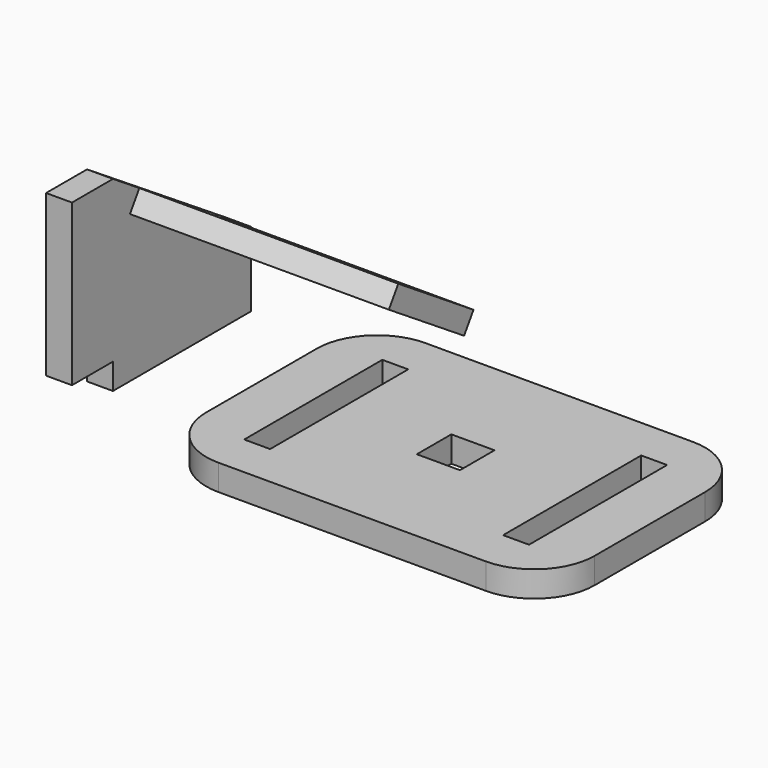
from build123d import *

# Parameters (mm, degrees)
F0_W      = 45
F0_H      = 30
F0_W_2    = 3
F0_H_2    = 20
F0_W_3    = 5
F0_H_3    = 5
F1_DEPTH  = 3
F2_R      = 7
F3_W      = 3
F3_H      = 20
F4_DEPTH  = 3
F5_W      = 5.9335825592
F5_H      = 18.6349982917
F6_DEPTH  = 3
F8_DEPTH  = 25
F10_DEPTH = 33


with BuildPart() as f1:
    # F0 (on Top) → F1 (new body)
    with BuildSketch(Plane.XY):
        Rectangle(F0_W, F0_H)
        with Locations((-15, 0)):
            Rectangle(F0_W_2, F0_H_2, mode=Mode.SUBTRACT)
        Rectangle(F0_W_3, F0_H_3, mode=Mode.SUBTRACT)
        with Locations((15, 0)):
            Rectangle(F0_W_2, F0_H_2, mode=Mode.SUBTRACT)
    extrude(amount=F1_DEPTH)

    # F2
    f2_edges = [f1.edges().sort_by_distance(p)[0] for p in [
        (-22.5, 15, 1.5),
        (-22.5, -15, 1.5),
        (22.5, -15, 1.5),
        (22.5, 15, 1.5),
    ]]
    fillet(f2_edges, radius=F2_R)


with BuildPart() as f4:
    # F3 (on face) → F4 (new body)
    with BuildSketch(Plane.XY.offset(3)):
        with Locations((-33.210418433, 0)):
            Rectangle(F3_W, F3_H)
    extrude(amount=F4_DEPTH)

    # F5 (on face) → F6 (join)
    with BuildSketch(Plane(origin=(-34.710418433, 0, 0), x_dir=(0, -1, 0), z_dir=(-1, 0, 0))):
        with Locations((12.9667912796, 15.3174991459)):
            Rectangle(F5_W, F5_H)
        Polygon((10, 6), (10, 24.6349982917), (-10, 11.6250403225), (-10, 6), align=None)
    extrude(amount=-F6_DEPTH)

    # F7 (on face) → F8 (cut)
    with BuildSketch(Plane.YZ.offset(-31.710418433)):
        Polygon((4.7235328902, 15.0573710887), (-6.1737542047, 22.1460334429), (-7.5369585036, 20.0504013093), (3.3603285913, 12.9617389551), align=None)
    extrude(amount=-F8_DEPTH, mode=Mode.SUBTRACT)


with BuildPart() as f10:
    # F9 (on face) → F10 (new body)
    with BuildSketch(Plane(origin=(-34.710418433, 0, 0), x_dir=(0, -1, 0), z_dir=(-1, 0, 0))):
        Polygon((-3.3603285913, 12.9617389551), (7.5369585036, 20.0504013093), (6.1737542047, 22.1460334429), (-4.7235328902, 15.0573710887), align=None)
    extrude(amount=-F10_DEPTH)


solid = Compound([f1.part, f4.part, f10.part])
